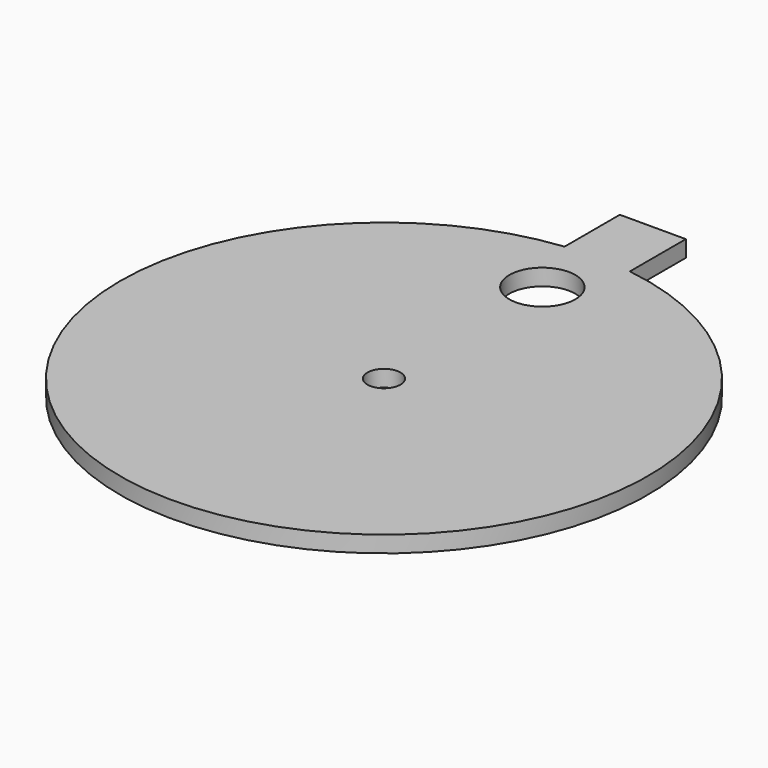
from build123d import *

# Parameters (mm, degrees)
F0_R     = 50.8
F1_DEPTH = 3.175
F2_R     = 6.35
F3_DEPTH = 3.175
F4_R     = 3.175
F5_DEPTH = 25.4
F7_DEPTH = 3.175


with BuildPart() as f1:
    # F0 (on Top) → F1 (new body)
    with BuildSketch(Plane.XY):
        Circle(F0_R)
    extrude(amount=F1_DEPTH)

    # F2 (on face) → F3 (cut)
    with BuildSketch(Plane.XY.offset(3.175)):
        with Locations((0, 38.1)):
            Circle(F2_R)
    extrude(amount=-F3_DEPTH, mode=Mode.SUBTRACT)

    # F4 (on face) → F5 (cut)
    with BuildSketch(Plane.XY.offset(3.175)):
        Circle(F4_R)
    extrude(amount=-F5_DEPTH, mode=Mode.SUBTRACT)

    # F6 (on face) → F7 (join)
    with BuildSketch(Plane.XY.offset(3.175)):
        with BuildLine():
            Line((-5.628267, 63.773812), (-5.628267, 50.487252))
            ThreePointArc((-5.628267, 50.487252), (0.72744, 50.794791), (7.071733, 50.305373))
            Line((7.071733, 50.305373), (7.071733, 63.773812))
            Line((7.071733, 63.773812), (-5.628267, 63.773812))
        make_face()
    extrude(amount=-F7_DEPTH)


solid = f1.part
